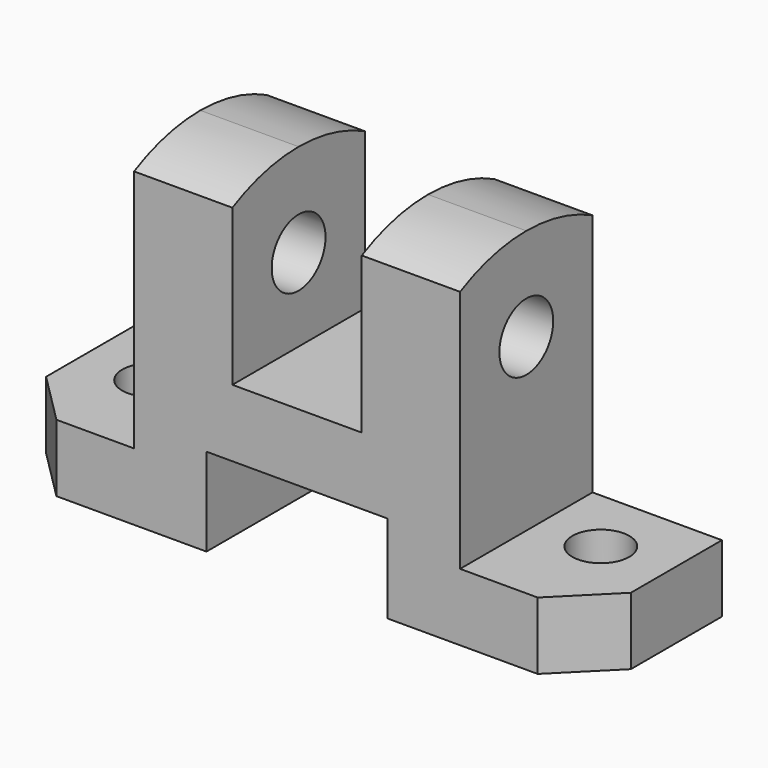
from build123d import *

# Parameters (mm, degrees)
F1_DEPTH = 16
F3_DEPTH = 23.501
F4_R     = 5.5
F5_DEPTH = 23.501
F7_DEPTH = 88.001
F6_R     = 6.5
F8_DEPTH = 88.001


with BuildPart() as f1:
    # F0 (on Front) → F1 (new body, symmetric)
    with BuildSketch(Plane.XZ):
        Polygon((12.5, 6.5), (0, 6.5), (-12.5, 6.5), (-12.5, 40.5), (-31.5, 40.5), (-31.5, -10.5), (-56.5, -10.5), (-56.5, -23.5), (-17.5, -23.5), (-17.5, -6.5), (0, -6.5), (17.5, -6.5), (17.5, -23.5), (56.5, -23.5), (56.5, -10.5), (31.5, -10.5), (31.5, 40.5), (12.5, 40.5), align=None)
    extrude(amount=F1_DEPTH, both=True)

    # F2 (on Top) → F3 (cut, through all)
    with BuildSketch(Plane.XY):
        Polygon((-46.5, -16), (-56.5, -6), (-56.5, -16), align=None)
        Polygon((56.5, -16), (56.5, -6), (46.5, -16), align=None)
    extrude(amount=-F3_DEPTH, mode=Mode.SUBTRACT)

    # F4 (on Top) → F5 (cut, through all)
    with BuildSketch(Plane.XY):
        with Locations((43.5, 3)):
            Circle(F4_R)
        with Locations((-43.5, 3)):
            Circle(F4_R)
    extrude(amount=-F5_DEPTH, mode=Mode.SUBTRACT)

    # F6 (on face) → F7 (cut, through all)
    with BuildSketch(Plane.YZ.offset(31.5)):
        with BuildLine():
            ThreePointArc((-16, 36.628765), (-8.230833, 39.518427), (0, 40.5))
            Line((0, 40.5), (-16, 40.5))
            Line((-16, 40.5), (-16, 36.628765))
        make_face()
        with BuildLine():
            ThreePointArc((0, 40.5), (8.230833, 39.518427), (16, 36.628765))
            Line((16, 36.628765), (16, 40.5))
            Line((16, 40.5), (0, 40.5))
        make_face()
    extrude(amount=-F7_DEPTH, mode=Mode.SUBTRACT)

    # F6 (on face) → F8 (cut, through all)
    with BuildSketch(Plane.YZ.offset(31.5)):
        with Locations((0, 22.5)):
            Circle(F6_R)
    extrude(amount=-F8_DEPTH, mode=Mode.SUBTRACT)


solid = f1.part
